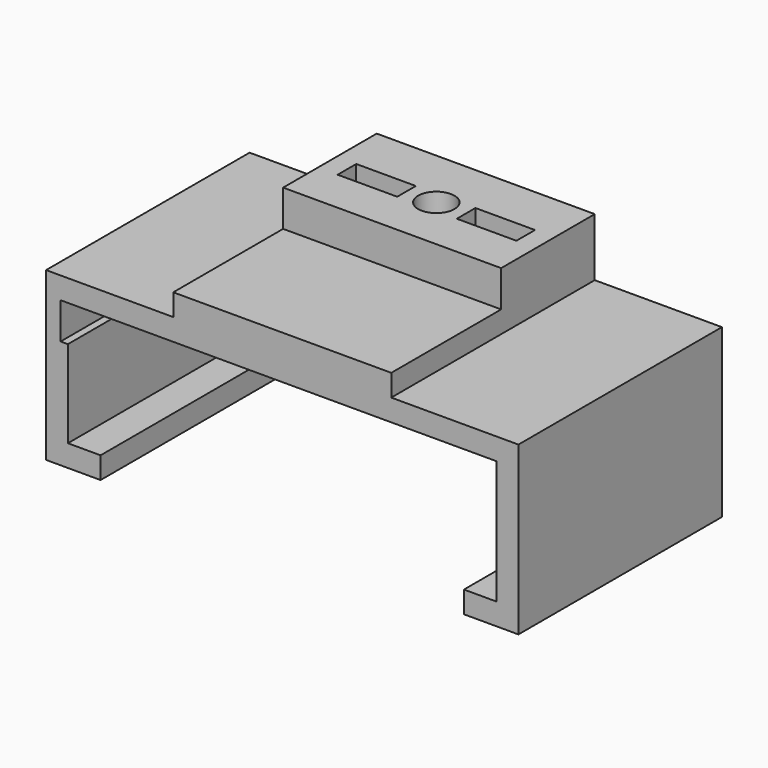
from build123d import *

# Parameters (mm, degrees)
F1_DEPTH = 35
F3_DEPTH = 2
F4_R     = 2.5
F5_DEPTH = 25
F6_W     = 8.2
F6_H     = 3.2
F7_DEPTH = 7
F8_W     = 30
F8_H     = 18.9
F9_DEPTH = 5


with BuildPart() as f1:
    # F0 (on Front) → F1 (new body)
    with BuildSketch(Plane.XZ):
        Polygon((-15, 11.5), (-32.5, 11.5), (-32.5, -11.5), (-25, -11.5), (-25, -8.5), (-29.5, -8.5), (-29.5, 3.5), (-30.5, 3.5), (-30.5, 8.5), (-29.5, 8.5), (29.5, 8.5), (29.5, -8.5), (25, -8.5), (25, -11.5), (32.5, -11.5), (32.5, 11.5), (15, 11.5), (15, 19.5), (0, 19.5), (-15, 19.5), align=None)
    extrude(amount=F1_DEPTH)

    # F2 (on face) → F3 (join)
    with BuildSketch(Plane(origin=(0, 0, 0), x_dir=(-1, 0, 0), z_dir=(0, 1, 0))):
        Polygon((-15, 11.5), (-32.5, 11.5), (-32.5, -11.5), (-25, -11.5), (25, -11.5), (32.5, -11.5), (32.5, 11.5), (15, 11.5), (15, 19.5), (-15, 19.5), align=None)
    extrude(amount=-F3_DEPTH)

    # F4 (on face) → F5 (cut)
    with BuildSketch(Plane.XY.offset(19.5)):
        with Locations((0, -8.5)):
            Circle(F4_R)
    extrude(amount=-F5_DEPTH, mode=Mode.SUBTRACT)

    # F6 (on face) → F7 (cut)
    with BuildSketch(Plane.XY.offset(19.5)):
        with Locations((-8.2, -8.5)):
            Rectangle(F6_W, F6_H)
        with Locations((8.2, -8.5)):
            Rectangle(F6_W, F6_H)
    extrude(amount=-F7_DEPTH, mode=Mode.SUBTRACT)

    # F8 (on face) → F9 (cut)
    with BuildSketch(Plane.XY.offset(19.5)):
        with Locations((0, -25.55)):
            Rectangle(F8_W, F8_H)
    extrude(amount=-F9_DEPTH, mode=Mode.SUBTRACT)


solid = f1.part
